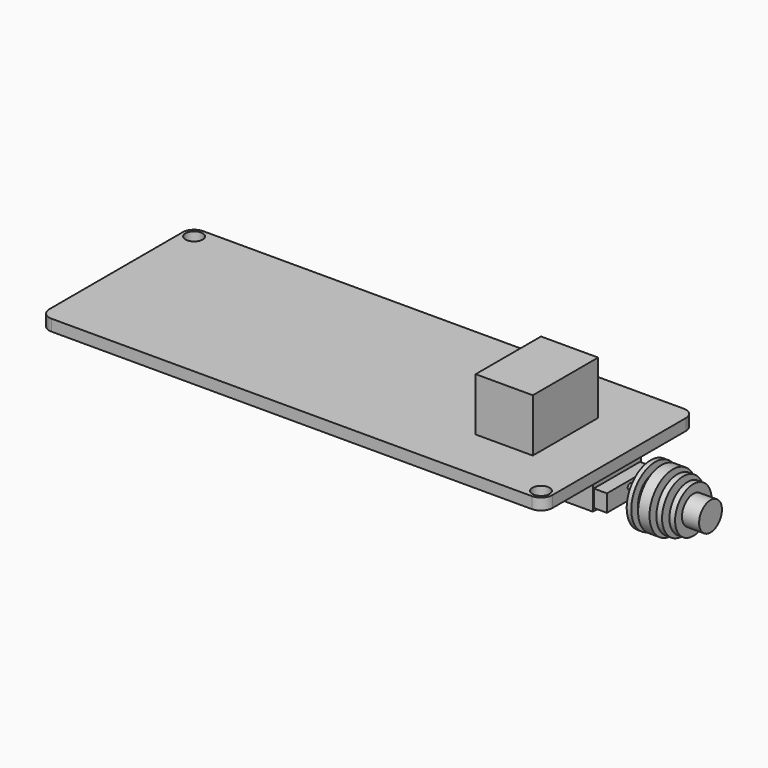
from build123d import *

# Parameters (mm, degrees)
F0_R      = 1.5
F1_DEPTH  = 2
F2_W      = 10
F2_H      = 14.3
F3_DEPTH  = 9.3
F4_W      = 12.45
F4_H      = 5
F4_W_2    = 10.4
F4_H_2    = 1.5
F5_DEPTH  = 9
F7_DEPTH  = 4.5
F8_START  = 1
F6_W      = 0.4
F6_H      = 10.1
F8_DEPTH  = 3
F6_W_2    = 6
F6_H_2    = 11
F11_DEPTH = 4


with BuildPart() as f1:
    # F0 (on Top) → F1 (new body)
    with BuildSketch(Plane.XY):
        with BuildLine():
            Line((86.1, 0), (2, 0))
            ThreePointArc((2, 0), (0.5857864376, -0.5857864376), (0, -2))
            Line((0, -2), (0, -31.2))
            ThreePointArc((0, -31.2), (0.5857864376, -32.6142135624), (2, -33.2))
            Line((2, -33.2), (86.1, -33.2))
            ThreePointArc((86.1, -33.2), (87.5142135624, -32.6142135624), (88.1, -31.2))
            Line((88.1, -31.2), (88.1, -2))
            ThreePointArc((88.1, -2), (87.5142135624, -0.5857864376), (86.1, 0))
        make_face()
        with Locations((86.1, -31.2)):
            Circle(F0_R, mode=Mode.SUBTRACT)
        with Locations((2, -2)):
            Circle(F0_R, mode=Mode.SUBTRACT)
    extrude(amount=F1_DEPTH)


with BuildPart() as f3:
    # F2 (on face) → F3 (new body)
    with BuildSketch(Plane.XY.offset(2)):
        with Locations((73.7, -16.6)):
            Rectangle(F2_W, F2_H)
    extrude(amount=F3_DEPTH)

    # F4 (on face) → F5 (cut)
    with BuildSketch(Plane(origin=(68.7, 0, 0), x_dir=(0, -1, 0), z_dir=(-1, 0, 0))):
        with Locations((16.6, 7.9)):
            Rectangle(F4_W, F4_H)
        with Locations((16.6, 7.05)):
            Rectangle(F4_W_2, F4_H_2, mode=Mode.SUBTRACT)
    extrude(amount=-F5_DEPTH, mode=Mode.SUBTRACT)


with BuildPart() as f7:
    # F6 (on face) → F7 (new body)
    with BuildSketch(Plane(origin=(0, 0, 0), x_dir=(1, 0, 0), z_dir=(0, 0, -1))):
        Polygon((87.7, 21.85), (80.7, 21.85), (80.7, 11.35), (87.7, 11.35), (87.7, 11.55), (87.7, 21.65), align=None)
    extrude(amount=F7_DEPTH)


with BuildPart() as f8:
    # F6 (on face) → F8 (new body)
    with BuildSketch(Plane(origin=(0, 0, 0), x_dir=(1, 0, 0), z_dir=(0, 0, -1)).offset(F8_START)):
        Polygon((90, 21.65), (88.1, 21.65), (88.1, 11.55), (90, 11.55), (90, 16.6), (90, 17.1), align=None)
        with Locations((87.9, 16.6)):
            Rectangle(F6_W, F6_H)
    extrude(amount=F8_DEPTH)


with BuildPart() as f9:
    # F6 (on face) → F9 (revolve)
    with BuildSketch(Plane(origin=(0, 0, 0), x_dir=(1, 0, 0), z_dir=(0, 0, -1))):
        Polygon((93, 17.1), (90, 17.1), (90, 16.6), (104.1, 16.6), (104.1, 19.1), (101.1, 19.1), (101.1, 20.6), (100.1, 20.6), (100.1, 19.1), (99.3, 19.1), (99.3, 21.2), (98.3, 21.2), (98.3, 19.1), (97.5, 19.1), (97.5, 21.7), (95.5, 21.7), (95.5, 20.35), (94.4, 20.35), (94.4, 21.825), (93.6, 21.825), (93.6, 19.1), (93, 19.1), align=None)
    revolve(axis=Axis((94.172830677, -16.6, 0), (1, 0, 0)))


with BuildPart() as f9_1:
    # F10: moved
    add(f9.part.moved(Location((0, 0, -2))))


with BuildPart() as f11:
    # F6 (on face) → F11 (new body)
    with BuildSketch(Plane(origin=(0, 0, 0), x_dir=(1, 0, 0), z_dir=(0, 0, -1))):
        with Locations((3, 16.6)):
            Rectangle(F6_W_2, F6_H_2)
    extrude(amount=F11_DEPTH)


solid = Compound([f1.part, f3.part, f7.part, f8.part, f9_1.part, f11.part])
